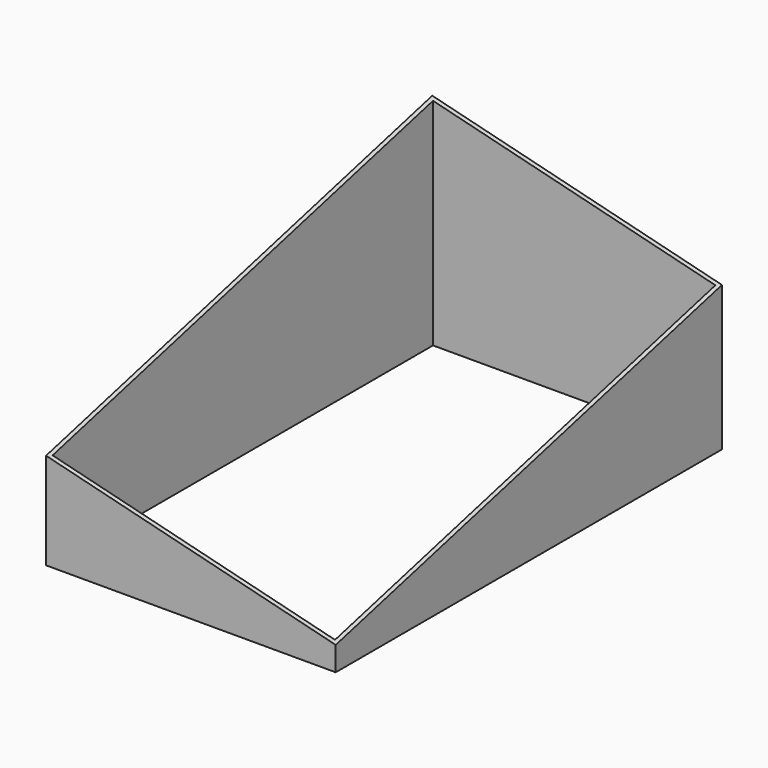
from build123d import *

# Parameters (mm, degrees)
F10_T = -1.5


with BuildPart() as f9:
    # F8 (on plane+point) → F9 section 0
    with BuildSketch(Plane.YZ.offset(-60)):
        Polygon((100, 0), (100, 90), (-100, 40), (-100, 0), align=None)
    # F6 (on plane+point) → F9 section 1
    with BuildSketch(Plane.YZ.offset(60)):
        Polygon((100, 60), (-100, 10), (-100, 0), (100, 0), align=None)
    loft()

    # F10
    f10_openings = [f9.faces().sort_by_distance(p)[0] for p in [
        (0, 0, 0),
        (0, 0, 50),
    ]]
    offset(amount=F10_T, openings=f10_openings, kind=Kind.INTERSECTION)


solid = f9.part
